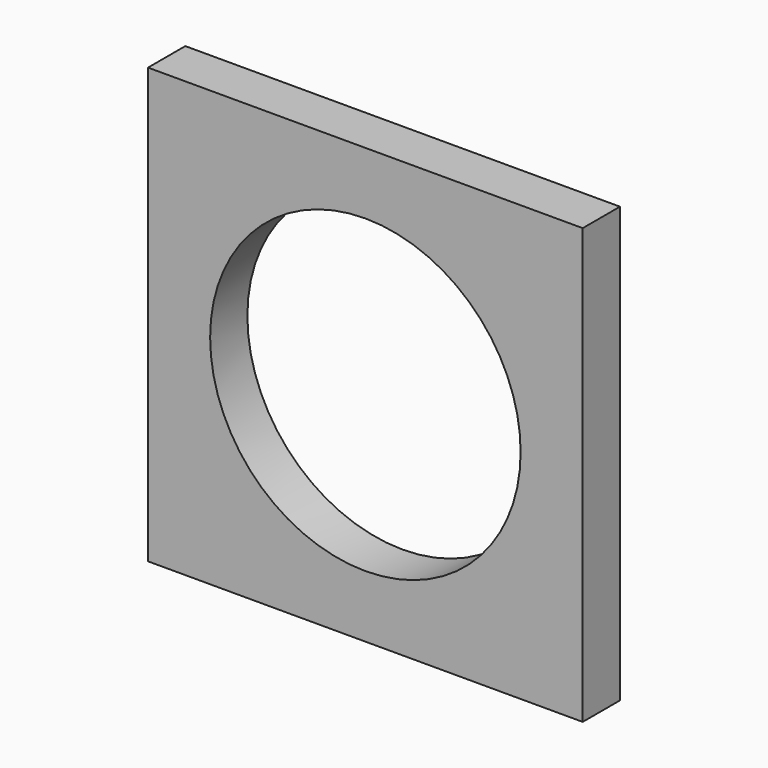
from build123d import *

# Parameters (mm, degrees)
F1_W     = 177.8
F1_H     = 177.8
F1_R     = 63.5
F2_DEPTH = 9.525


with BuildPart() as f2:
    # F1 (on face) → F2 (new body, symmetric)
    with BuildSketch(Plane.XZ):
        Rectangle(F1_W, F1_H)
        Circle(F1_R, mode=Mode.SUBTRACT)
    extrude(amount=F2_DEPTH, both=True)


solid = f2.part
